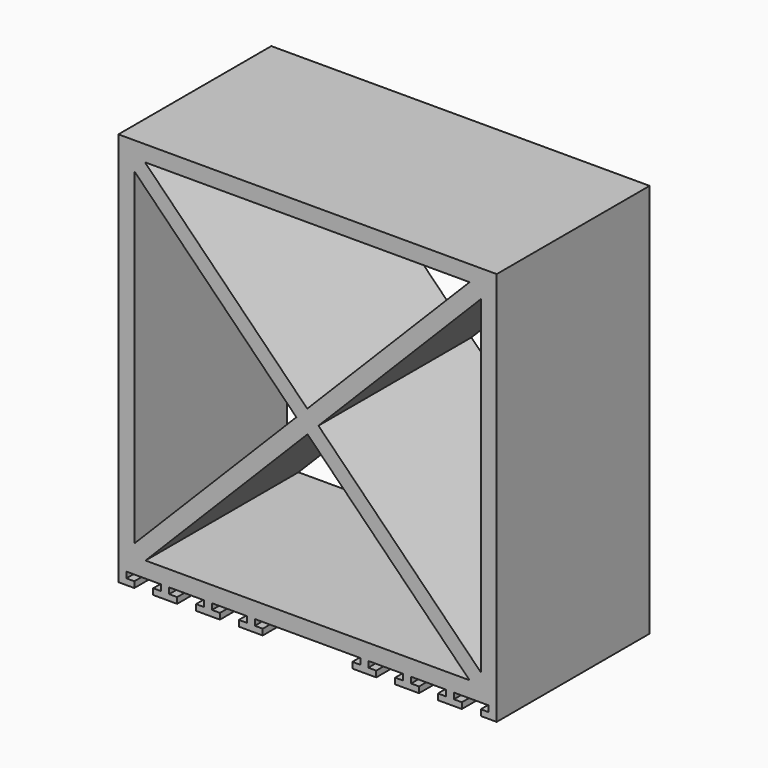
from build123d import *

# Parameters (mm, degrees)
F0_W     = 603.25
F0_H     = 609.6
F1_DEPTH = 304.8
F3_DEPTH = 304.8


with BuildPart() as f1:
    # F0 (on Front) → F1 (new body)
    with BuildSketch(Plane.XZ):
        with Locations((301.625, 304.8)):
            Rectangle(F0_W, F0_H)
        Polygon((283.766245, 304.8), (25.4, 43.464028), (25.4, 566.135972), align=None, mode=Mode.SUBTRACT)
        Polygon((559.991245, 25.4), (43.258755, 25.4), (301.625, 286.735972), align=None, mode=Mode.SUBTRACT)
        Polygon((577.85, 566.135972), (577.85, 42.503546), (319.008971, 304.319759), align=None, mode=Mode.SUBTRACT)
        Polygon((301.150216, 322.383787), (42.309187, 584.2), (559.991245, 584.2), align=None, mode=Mode.SUBTRACT)
    extrude(amount=F1_DEPTH)

    # F2 (on Front) → F3 (join)
    with BuildSketch(Plane.XZ):
        Polygon((12.7, 0), (0, 0), (0, -19.05), (25.4, -19.05), (25.4, -9.525), (12.7, -9.525), align=None)
        Polygon((80.9625, 0), (68.2625, 0), (68.2625, -9.525), (55.5625, -9.525), (55.5625, -19.05), (93.6625, -19.05), (93.6625, -9.525), (80.9625, -9.525), align=None)
        Polygon((149.225, 0), (136.525, 0), (136.525, -9.525), (123.825, -9.525), (123.825, -19.05), (161.925, -19.05), (161.925, -9.525), (149.225, -9.525), align=None)
        Polygon((217.4875, 0), (204.7875, 0), (204.7875, -9.525), (192.0875, -9.525), (192.0875, -19.05), (230.1875, -19.05), (230.1875, -9.525), (217.4875, -9.525), align=None)
        Polygon((411.1625, -19.05), (411.1625, -9.525), (398.4625, -9.525), (398.4625, 0), (385.7625, 0), (385.7625, -9.525), (373.0625, -9.525), (373.0625, -19.05), align=None)
        Polygon((479.425, -9.525), (466.725, -9.525), (466.725, 0), (454.025, 0), (454.025, -9.525), (441.325, -9.525), (441.325, -19.05), (479.425, -19.05), align=None)
        Polygon((547.6875, -9.525), (534.9875, -9.525), (534.9875, 0), (522.2875, 0), (522.2875, -9.525), (509.5875, -9.525), (509.5875, -19.05), (547.6875, -19.05), align=None)
        Polygon((603.25, 0), (590.55, 0), (590.55, -9.525), (577.85, -9.525), (577.85, -19.05), (603.25, -19.05), align=None)
    extrude(amount=F3_DEPTH)


solid = f1.part
